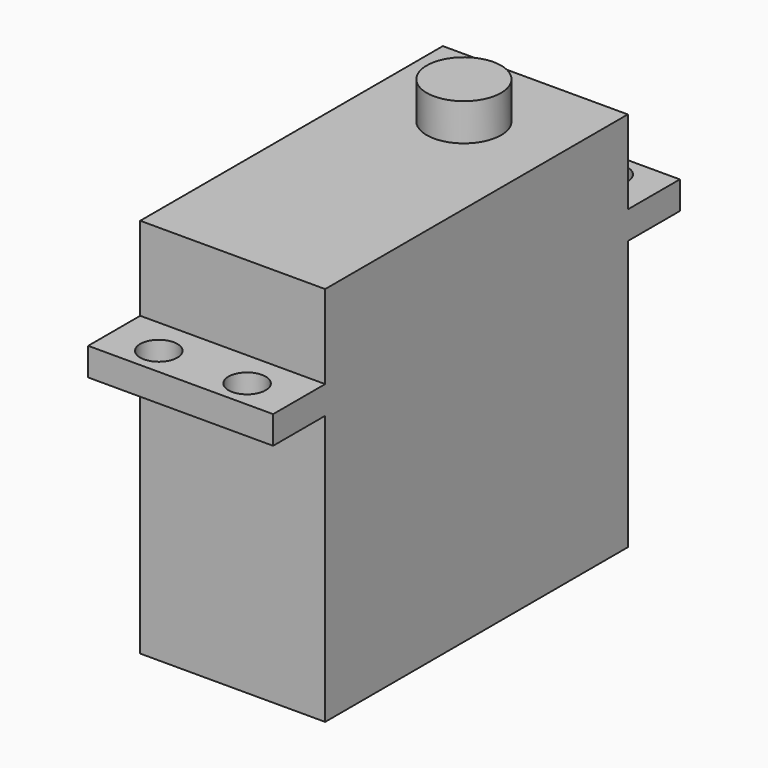
from build123d import *

# Parameters (mm, degrees)
F0_W     = 19.9
F0_H     = 40.7
F1_DEPTH = 41
F3_W     = 19.9
F3_H     = 7
F3_R     = 2
F4_DEPTH = 3
F5_R     = 4
F6_DEPTH = 4


with BuildPart() as f1:
    # F0 (on Top) → F1 (new body)
    with BuildSketch(Plane.XY):
        with Locations((0, -10.75)):
            Rectangle(F0_W, F0_H)
    extrude(amount=F1_DEPTH)

    # F3 (on offset) → F4 (join)
    with BuildSketch(Plane.XY.offset(29)):
        with Locations((0, 13.1)):
            Rectangle(F3_W, F3_H)
        with Locations((-4.75, 13.6)):
            Circle(F3_R, mode=Mode.SUBTRACT)
        with Locations((4.75, 13.6)):
            Circle(F3_R, mode=Mode.SUBTRACT)
        with Locations((0, -34.6)):
            Rectangle(F3_W, F3_H)
        with Locations((-4.75, -35.1)):
            Circle(F3_R, mode=Mode.SUBTRACT)
        with Locations((4.75, -35.1)):
            Circle(F3_R, mode=Mode.SUBTRACT)
    extrude(amount=F4_DEPTH)

    # F5 (on face) → F6 (join)
    with BuildSketch(Plane.XY.offset(41)):
        Circle(F5_R)
    extrude(amount=F6_DEPTH)


solid = f1.part
